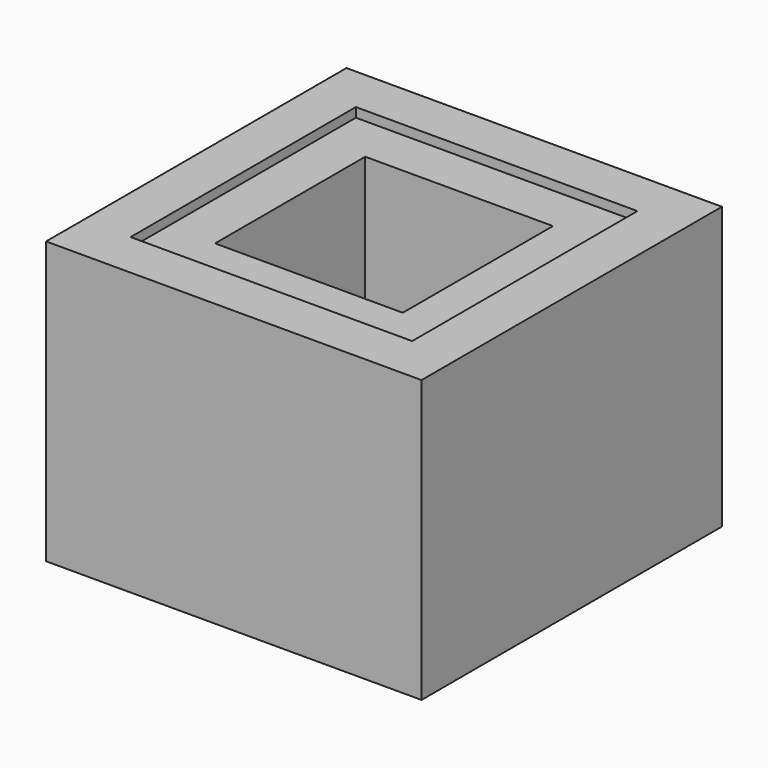
from build123d import *

# Parameters (mm, degrees)
BOX007_W     = 300
BOX007_H     = 300
BOX007_DEPTH = 10
BOX006_W     = 200
BOX006_H     = 200
BOX006_DEPTH = 300
BOX005_W     = 400
BOX005_H     = 400
BOX005_DEPTH = 300


with BuildPart() as cube006:
    # Box007 → Box007 (new body)
    with BuildSketch(Plane(origin=(50, 50, -20), x_dir=(1, 0, 0), z_dir=(0, 0, 1))):
        with Locations((150, 150)):
            Rectangle(BOX007_W, BOX007_H)
    extrude(amount=BOX007_DEPTH)


with BuildPart() as cube005:
    # Box006 → Box006 (new body)
    with BuildSketch(Plane(origin=(100, 100, -310), x_dir=(1, 0, 0), z_dir=(0, 0, 1))):
        with Locations((100, 100)):
            Rectangle(BOX006_W, BOX006_H)
    extrude(amount=BOX006_DEPTH)


with BuildPart() as cut003:
    # Box005 → Box005 (new body)
    with BuildSketch(Plane.XY.offset(-310)):
        with Locations((200, 200)):
            Rectangle(BOX005_W, BOX005_H)
    extrude(amount=BOX005_DEPTH)

    # Cut002: cut Cube005
    add(cube005.part, mode=Mode.SUBTRACT)

    # Cut003: cut Cube006
    add(cube006.part, mode=Mode.SUBTRACT)


solid = cut003.part
